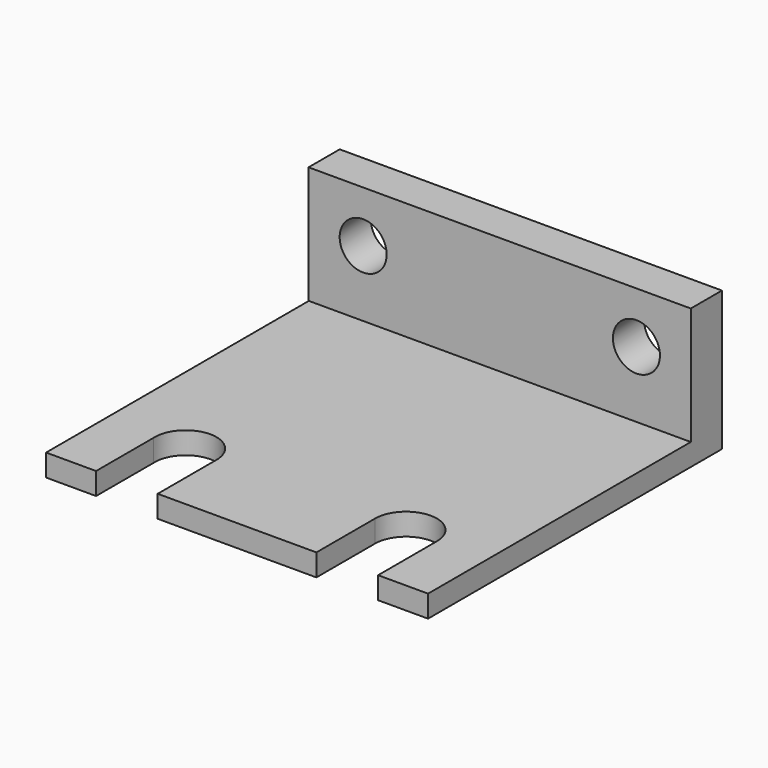
from build123d import *

# Parameters (mm, degrees)
PAD_DEPTH    = 1.5
SKETCH001_W  = 26.017304
SKETCH001_H  = 2.649366
PAD001_DEPTH = 8
SKETCH002_R  = 1.6
POCKET_DEPTH = 2.650366


with BuildPart() as part:
    # Sketch → Pad (new body)
    with BuildSketch(Plane.XY):
        with BuildLine():
            Line((-13, 12.5), (13, 12.5))
            Line((13, 12.5), (13, -12.5))
            Line((13, -12.5), (9.6, -12.5))
            Line((9.6, -7.500992), (9.6, -12.5))
            ThreePointArc((9.6, -7.500992), (7.5, -5.4), (5.4, -7.500992))
            Line((5.4, -7.500992), (5.4, -12.5))
            Line((5.4, -12.5), (-5.40282, -12.5))
            Line((-5.40282, -7.608787), (-5.40282, -12.5))
            ThreePointArc((-5.40282, -7.608787), (-7.5, -5.4), (-9.59718, -7.608787))
            Line((-9.59718, -7.608787), (-9.59718, -12.5))
            Line((-9.59718, -12.5), (-13, -12.5))
            Line((-13, -12.5), (-13, 12.5))
        make_face()
    extrude(amount=PAD_DEPTH)

    # Sketch001 → Pad001 (new body)
    with BuildSketch(Plane.XY.offset(1.5)):
        with Locations((-0.008652, 11.17938)):
            Rectangle(SKETCH001_W, SKETCH001_H)
    extrude(amount=PAD001_DEPTH)

    # Sketch002 → Pocket (cut, through all)
    with BuildSketch(Plane.XZ.offset(-9.854697)):
        with Locations((-9.3, 6)):
            Circle(SKETCH002_R)
        with Locations((9.3, 6)):
            Circle(SKETCH002_R)
    extrude(amount=-POCKET_DEPTH, mode=Mode.SUBTRACT)


solid = part.part
